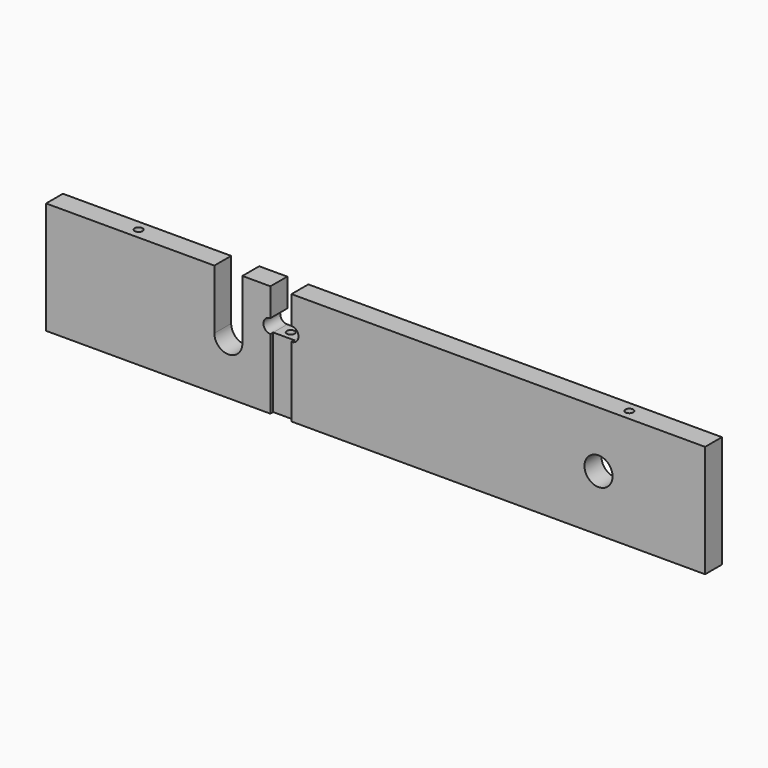
from build123d import *

# Parameters (mm, degrees)
F0_R            = 6.35
F1_DEPTH        = 9.525
F2_W            = 9.5377
F2_H            = 31.75
F3_DEPTH        = 1.5875
F5_D            = 5.159375
F5_DEPTH        = 19.05
F5_TIP          = 1.5500326281
F7_D            = 3.571875
F7_DEPTH        = 19.05
F7_TIP          = 1.0730995118
F10_D           = 3.571875
F10_DEPTH       = 12.7
F10_TIP         = 1.0730995118
F10_ON_F9_D     = 3.571875
F10_ON_F9_DEPTH = 12.7
F10_ON_F9_TIP   = 1.0730995118


with BuildPart() as f1:
    # F0 (on Front) → F1 (new body)
    with BuildSketch(Plane.XZ):
        with BuildLine():
            Line((0, 50.8), (0, 0))
            Line((0, 0), (298.45, 0))
            Line((298.45, 0), (298.45, 50.8))
            Line((298.45, 50.8), (111.1377, 50.8))
            Line((111.1377, 50.8), (111.1377, 38.1))
            ThreePointArc((111.1377, 38.1), (114.3127, 34.925), (111.1377, 31.75))
            Line((111.1377, 31.75), (101.6, 31.75))
            ThreePointArc((101.6, 31.75), (98.425, 34.925), (101.6, 38.1))
            Line((101.6, 38.1), (101.6, 50.8))
            Line((101.6, 50.8), (88.9, 50.8))
            Line((88.9, 50.8), (88.9, 23.8125))
            ThreePointArc((88.9, 23.8125), (82.55, 17.4625), (76.2, 23.8125))
            Line((76.2, 23.8125), (76.2, 50.8))
            Line((76.2, 50.8), (0, 50.8))
        make_face()
        with Locations((250.19, 25.4)):
            Circle(F0_R, mode=Mode.SUBTRACT)
    extrude(amount=F1_DEPTH)

    # F2 (on face) → F3 (cut)
    with BuildSketch(Plane.XZ.offset(9.525)):
        with Locations((106.36885, 15.875)):
            Rectangle(F2_W, F2_H)
    extrude(amount=-F3_DEPTH, mode=Mode.SUBTRACT)

    # F5
    with Locations(Plane(origin=(0, 0, 0), x_dir=(0, -1, 0), z_dir=(-1, 0, 0))):
        with Locations((4.7625, 38.1), (4.7625, 25.4), (4.7625, 12.7)):
            Hole(F5_D / 2, depth=F5_DEPTH)
            with Locations((0, 0, -(F5_DEPTH + F5_TIP / 2))):  # 118° drill point
                Cone(0, F5_D / 2, F5_TIP, mode=Mode.SUBTRACT)

    # F7
    with Locations(Plane.XY.offset(31.75)):
        with Locations((106.36885, -3.96875)):
            Hole(F7_D / 2, depth=F7_DEPTH)
            with Locations((0, 0, -(F7_DEPTH + F7_TIP / 2))):  # 118° drill point
                Cone(0, F7_D / 2, F7_TIP, mode=Mode.SUBTRACT)

    # F10
    with Locations(Plane.XY.offset(50.8)):
        with Locations((38.1, -4.7625), (260.35, -4.7625)):
            Hole(F10_D / 2, depth=F10_DEPTH)
            with Locations((0, 0, -(F10_DEPTH + F10_TIP / 2))):  # 118° drill point
                Cone(0, F10_D / 2, F10_TIP, mode=Mode.SUBTRACT)

    # F10 on F9
    with Locations(Plane(origin=(0, 0, 0), x_dir=(1, 0, 0), z_dir=(0, 0, -1))):
        with Locations((260.35, 4.7625), (38.1, 4.7625)):
            Hole(F10_ON_F9_D / 2, depth=F10_ON_F9_DEPTH)
            with Locations((0, 0, -(F10_ON_F9_DEPTH + F10_ON_F9_TIP / 2))):  # 118° drill point
                Cone(0, F10_ON_F9_D / 2, F10_ON_F9_TIP, mode=Mode.SUBTRACT)


solid = f1.part
